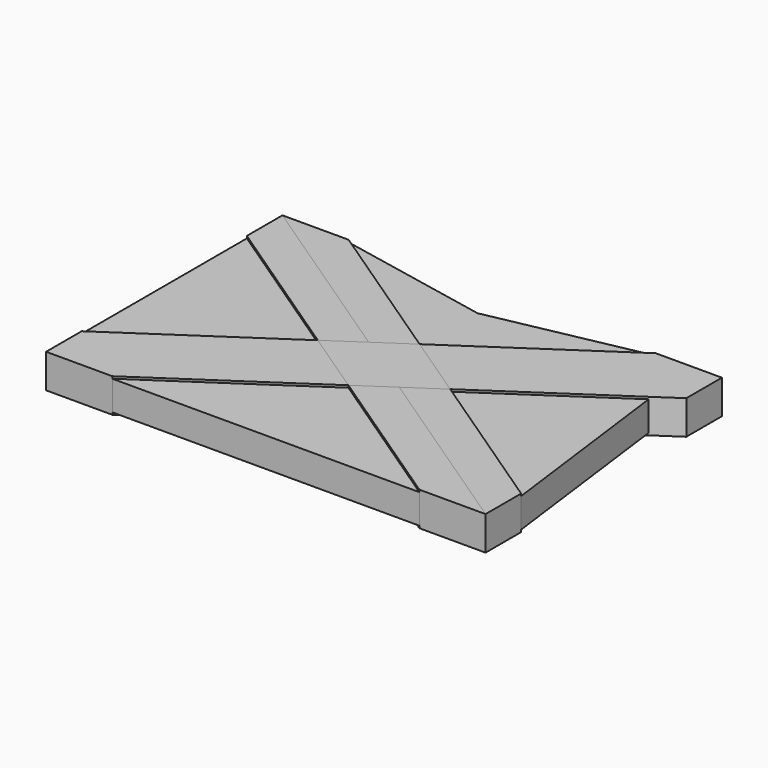
from build123d import *

# Parameters (mm, degrees)
F1_DEPTH = 23
F2_DEPTH = 23
F3_DEPTH = 23
F4_DEPTH = 23
F5_DEPTH = 23
F6_DEPTH = 23
F7_DEPTH = 20


with BuildPart() as f1:
    # F0 (on Top) → F1 (new body, symmetric)
    with BuildSketch(Plane.XY):
        Polygon((207.8805789742, -200), (297.5, -200), (44.8097105129, -30.1241751347), (0, -60.2483502694), align=None)
    extrude(amount=F1_DEPTH, both=True)


with BuildPart() as f1b:
    # F0 (on Top) → F1, piece 2 (new body, symmetric)
    with BuildSketch(Plane.XY):
        Polygon((-44.8097105129, 30.1241751347), (-297.5, 200), (-297.5, 139.7516497306), (-89.6194210258, 0), align=None)
    extrude(amount=F1_DEPTH, both=True)


with BuildPart() as f2:
    # F0 (on Top) → F2 (new body)
    with BuildSketch(Plane.XY):
        Polygon((44.8097105129, -30.1241751347), (0, 0), (-44.8097105129, -30.1241751347), (0, -60.2483502694), align=None)
        Polygon((-44.8097105129, -30.1241751347), (0, 0), (-44.8097105129, 30.1241751347), (-89.6194210258, 0), align=None)
    extrude(amount=-F2_DEPTH)


with BuildPart() as f3:
    # F0 (on Top) → F3 (new body, symmetric)
    with BuildSketch(Plane.XY):
        Polygon((0, 60.2483502694), (-207.8805789742, 200), (-297.5, 200), (-44.8097105129, 30.1241751347), align=None)
    extrude(amount=F3_DEPTH, both=True)


with BuildPart() as f3b:
    # F0 (on Top) → F3, piece 2 (new body, symmetric)
    with BuildSketch(Plane.XY):
        Polygon((297.5, -200), (297.5, -139.7516497306), (89.6194210258, 0), (44.8097105129, -30.1241751347), align=None)
    extrude(amount=F3_DEPTH, both=True)


with BuildPart() as f4:
    # F0 (on Top) → F4 (new body)
    with BuildSketch(Plane.XY):
        Polygon((89.6194210258, 0), (44.8097105129, 30.1241751347), (0, 0), (44.8097105129, -30.1241751347), align=None)
        Polygon((0, 0), (44.8097105129, 30.1241751347), (0, 60.2483502694), (-44.8097105129, 30.1241751347), align=None)
    extrude(amount=-F4_DEPTH)


with BuildPart() as f5:
    # F0 (on Top) → F5 (new body, symmetric)
    with BuildSketch(Plane.XY):
        Polygon((0, -60.2483502694), (-44.8097105129, -30.1241751347), (-297.5, -200), (-207.8805789742, -200), align=None)
        Polygon((-297.5, -200), (-44.8097105129, -30.1241751347), (-89.6194210258, 0), (-297.5, -139.7516497306), align=None)
    extrude(amount=F5_DEPTH, both=True)


with BuildPart() as f5b:
    # F0 (on Top) → F5, piece 2 (new body, symmetric)
    with BuildSketch(Plane.XY):
        Polygon((297.5, 139.7516497306), (297.5, 200), (44.8097105129, 30.1241751347), (89.6194210258, 0), (264.3040703014, 117.4350583365), align=None)
        Polygon((44.8097105129, 30.1241751347), (297.5, 200), (207.8805789742, 200), (0, 60.2483502694), align=None)
    extrude(amount=F5_DEPTH, both=True)


with BuildPart() as f6:
    # F0 (on Top) → F6 (new body)
    with BuildSketch(Plane.XY):
        Polygon((89.6194210258, 0), (44.8097105129, 30.1241751347), (0, 0), (44.8097105129, -30.1241751347), align=None)
        Polygon((0, 0), (44.8097105129, 30.1241751347), (0, 60.2483502694), (-44.8097105129, 30.1241751347), align=None)
        Polygon((-44.8097105129, -30.1241751347), (0, 0), (-44.8097105129, 30.1241751347), (-89.6194210258, 0), align=None)
        Polygon((44.8097105129, -30.1241751347), (0, 0), (-44.8097105129, -30.1241751347), (0, -60.2483502694), align=None)
    extrude(amount=F6_DEPTH)


with BuildPart() as f7:
    # F0 (on Top) → F7 (new body, symmetric)
    with BuildSketch(Plane.XY):
        Polygon((-89.6194210258, 0), (-297.5, 139.7516497306), (-297.5, -139.7516497306), align=None)
    extrude(amount=F7_DEPTH, both=True)


with BuildPart() as f7b:
    # F0 (on Top) → F7, piece 2 (new body, symmetric)
    with BuildSketch(Plane.XY):
        Polygon((-207.8805789742, -200), (207.8805789742, -200), (0, -60.2483502694), align=None)
    extrude(amount=F7_DEPTH, both=True)


with BuildPart() as f7c:
    # F0 (on Top) → F7, piece 3 (new body, symmetric)
    with BuildSketch(Plane.XY):
        Polygon((89.6194210258, 0), (297.5, -139.7516497306), (264.3040703014, 117.4350583365), align=None)
    extrude(amount=F7_DEPTH, both=True)


with BuildPart() as f7d:
    # F0 (on Top) → F7, piece 4 (new body, symmetric)
    with BuildSketch(Plane.XY):
        Polygon((0, 60.2483502694), (207.8805789742, 200), (0, 158.2938283682), (-207.8805789742, 200), align=None)
    extrude(amount=F7_DEPTH, both=True)


solid = Compound([f1.part, f1b.part, f2.part, f3.part, f3b.part, f4.part, f5.part, f5b.part, f6.part, f7.part, f7b.part, f7c.part, f7d.part])
